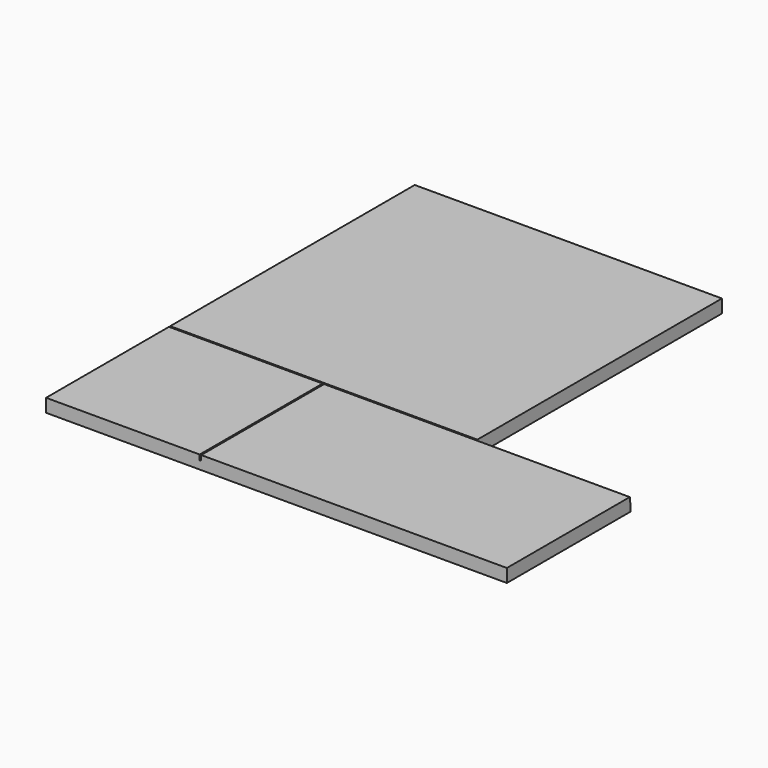
from build123d import *

# Parameters (mm, degrees)
F1_DEPTH = 26
F2_W     = 3
F2_H     = 301.5
F3_DEPTH = 10


with BuildPart() as f1:
    # F0 (on Top) → F1 (new body)
    with BuildSketch(Plane.XY):
        Polygon((603, 0), (0, 0), (0, -904.5), (904.5, -904.5), (904.5, -601.5), (603, -601.5), align=None)
    extrude(amount=F1_DEPTH)

    # F2 (on face) → F3 (cut)
    with BuildSketch(Plane.XY.offset(26)):
        Polygon((0, -600), (0, -603), (301.5, -603), (304.5, -603), (904.5, -603), (904.5, -600), align=None)
        with Locations((303, -753.75)):
            Rectangle(F2_W, F2_H)
    extrude(amount=-F3_DEPTH, mode=Mode.SUBTRACT)


solid = f1.part
